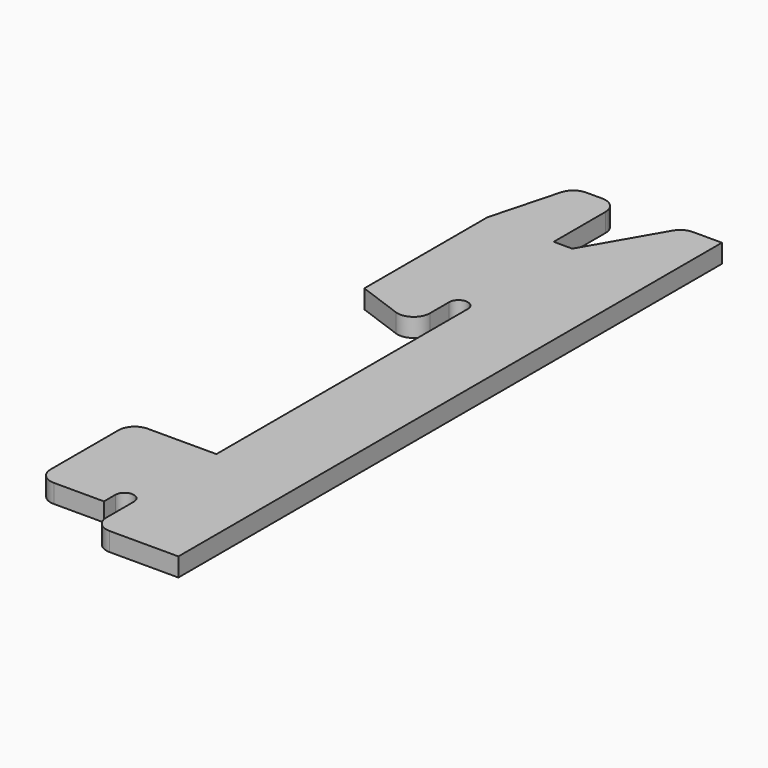
from build123d import *

# Parameters (mm, degrees)
F1_DEPTH = 2.3


with BuildPart() as f1:
    # F0 (on Top) → F1 (new body)
    with BuildSketch(Plane.XY):
        with BuildLine():
            Line((-8.5, 0), (0, 0))
            Line((0, 0), (0, 84))
            Line((0, 84), (-3.571797, 84))
            ThreePointArc((-3.571797, 84), (-4.571797, 83.732051), (-5.303848, 83))
            Line((-5.303848, 83), (-10.5, 74))
            Line((-10.5, 74), (-12.8, 74))
            Line((-12.8, 74), (-12.8, 82))
            ThreePointArc((-12.8, 82), (-13.385786, 83.414214), (-14.8, 84))
            Line((-14.8, 84), (-16.785854, 84))
            ThreePointArc((-16.785854, 84), (-18.003377, 83.586707), (-18.717706, 82.517638))
            Line((-18.717706, 82.517638), (-21, 74))
            Line((-21, 74), (-21, 54.984556))
            Line((-21, 54.984556), (-15.48404, 52.976911))
            ThreePointArc((-15.48404, 52.976911), (-13.652847, 53.217992), (-12.8, 54.856296))
            Line((-12.8, 54.856296), (-12.8, 57.85))
            ThreePointArc((-12.8, 57.85), (-11.65, 59), (-10.5, 57.85))
            Line((-10.5, 57.85), (-10.5, 19))
            Line((-10.5, 19), (-19, 19))
            ThreePointArc((-19, 19), (-20.414214, 18.414214), (-21, 17))
            Line((-21, 17), (-21, 6.5))
            ThreePointArc((-21, 6.5), (-20.414214, 5.085786), (-19, 4.5))
            Line((-19, 4.5), (-12.8, 4.5))
            Line((-12.8, 4.5), (-12.8, 6.25))
            ThreePointArc((-12.8, 6.25), (-11.65, 7.4), (-10.5, 6.25))
            Line((-10.5, 6.25), (-10.5, 2))
            ThreePointArc((-10.5, 2), (-9.914214, 0.585786), (-8.5, 0))
        make_face()
    extrude(amount=F1_DEPTH)


solid = f1.part
